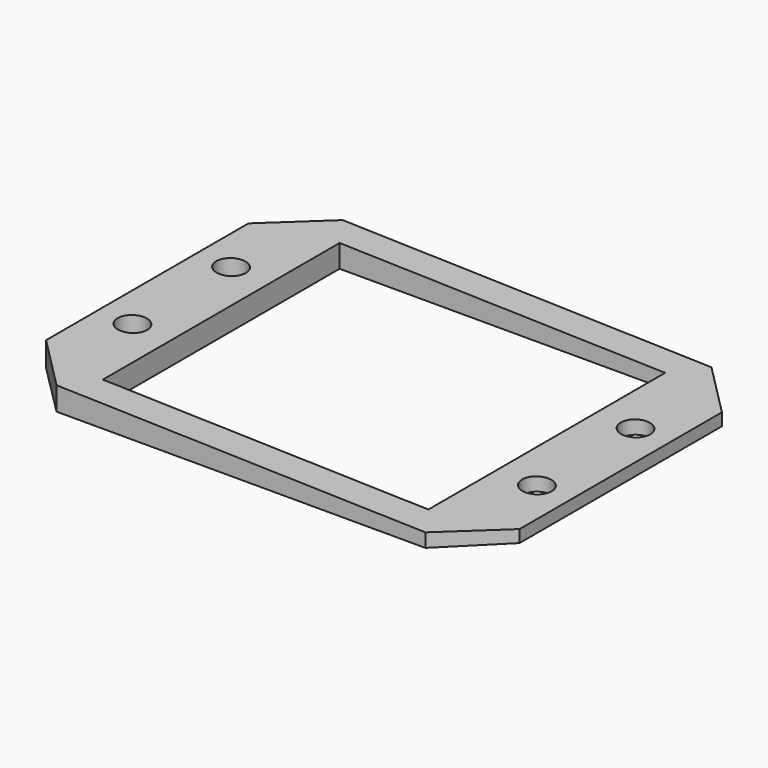
from build123d import *

# Parameters (mm, degrees)
F1_DEPTH = 92.075
F2_R     = 3.81
F2_W     = 83.82
F2_H     = 76.2
F3_DEPTH = 25.4


with BuildPart() as f1:
    # F0 (on Front) → F1 (new body)
    with BuildSketch(Plane.XZ):
        Polygon((0, 6.35), (0, 0), (121.92, 0), (121.92, 3.175), align=None)
    extrude(amount=-F1_DEPTH)

    # F2 (on Top) → F3 (cut)
    with BuildSketch(Plane.XY):
        with Locations((8.89, 61.9125)):
            Circle(F2_R)
        with Locations((8.89, 30.1625)):
            Circle(F2_R)
        with Locations((113.03, 30.1625)):
            Circle(F2_R)
        with Locations((113.03, 61.9125)):
            Circle(F2_R)
        with Locations((60.96, 46.0375)):
            Rectangle(F2_W, F2_H)
        Polygon((121.92, 92.075), (108.449616, 92.075), (121.92, 78.604616), align=None)
        Polygon((0, 92.075), (0, 78.604616), (13.470384, 92.075), align=None)
        Polygon((0, 13.470384), (0, 0), (13.470384, 0), align=None)
        Polygon((121.92, 13.470384), (108.449616, 0), (121.92, 0), align=None)
    extrude(amount=F3_DEPTH, mode=Mode.SUBTRACT)


solid = f1.part
